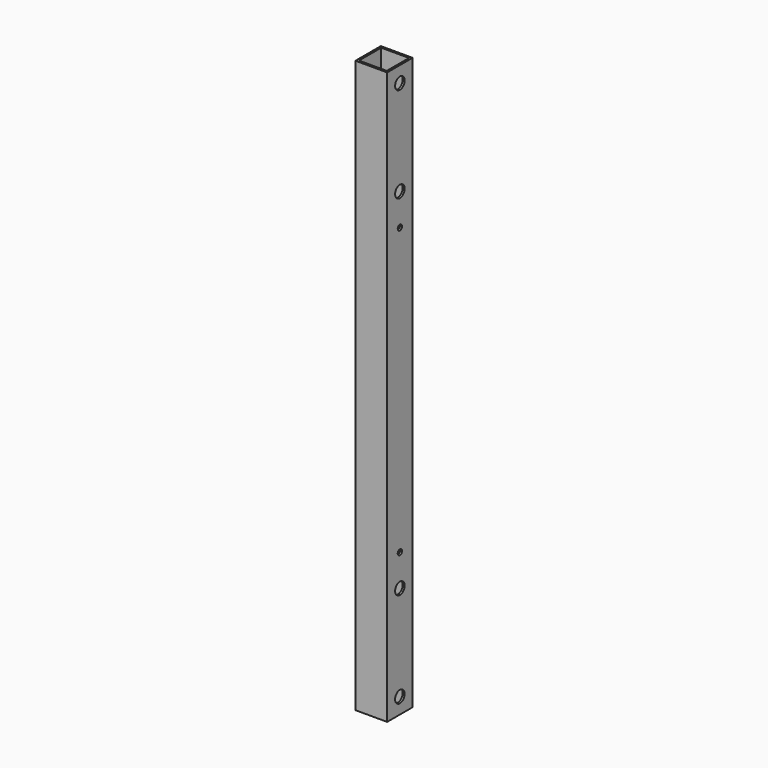
from build123d import *

# Parameters (mm, degrees)
F0_W     = 25.4
F0_H     = 25.4
F0_W_2   = 22.225
F0_H_2   = 22.225
F1_DEPTH = 457.2
F2_R     = 3.175
F3_DEPTH = 1.5875
F4_R     = 2.15265
F5_DEPTH = 25.4
F6_R     = 4.7625
F7_DEPTH = 1.5875
F8_R     = 4.7625
F9_DEPTH = 1.5875


with BuildPart() as f1:
    # F0 (on Top) → F1 (new body)
    with BuildSketch(Plane.XY):
        Rectangle(F0_W, F0_H)
        Rectangle(F0_W_2, F0_H_2, mode=Mode.SUBTRACT)
    extrude(amount=F1_DEPTH)

    # F2 (on face) → F3 (cut, through all)
    with BuildSketch(Plane(origin=(0, 12.7, 0), x_dir=(-1, 0, 0), z_dir=(0, 1, 0))):
        with Locations((0, 228.6)):
            Circle(F2_R)
    extrude(amount=-F3_DEPTH, mode=Mode.SUBTRACT)

    # F4 (on face) → F5 (cut, through all)
    with BuildSketch(Plane(origin=(-12.7, 0, 0), x_dir=(0, -1, 0), z_dir=(-1, 0, 0))):
        with Locations((0, 12.7)):
            Circle(F4_R)
        with Locations((0, 88.9)):
            Circle(F4_R)
        with Locations((0, 444.5)):
            Circle(F4_R)
        with Locations((0, 368.3)):
            Circle(F4_R)
        with Locations((0, 342.9)):
            Circle(F4_R)
        with Locations((0, 114.3)):
            Circle(F4_R)
    extrude(amount=-F5_DEPTH, mode=Mode.SUBTRACT)

    # F6 (on face) → F7 (cut, through all)
    with BuildSketch(Plane.YZ.offset(12.7)):
        with Locations((0, 444.5)):
            Circle(F6_R)
        with Locations((0, 368.3)):
            Circle(F6_R)
        with Locations((0, 12.7)):
            Circle(F6_R)
        with Locations((0, 88.9)):
            Circle(F6_R)
    extrude(amount=-F7_DEPTH, mode=Mode.SUBTRACT)

    # F8 (on face) → F9 (cut, through all)
    with BuildSketch(Plane(origin=(-12.7, 0, 0), x_dir=(0, -1, 0), z_dir=(-1, 0, 0))):
        with Locations((0, 342.9)):
            Circle(F8_R)
        with Locations((0, 114.3)):
            Circle(F8_R)
    extrude(amount=-F9_DEPTH, mode=Mode.SUBTRACT)


solid = f1.part
